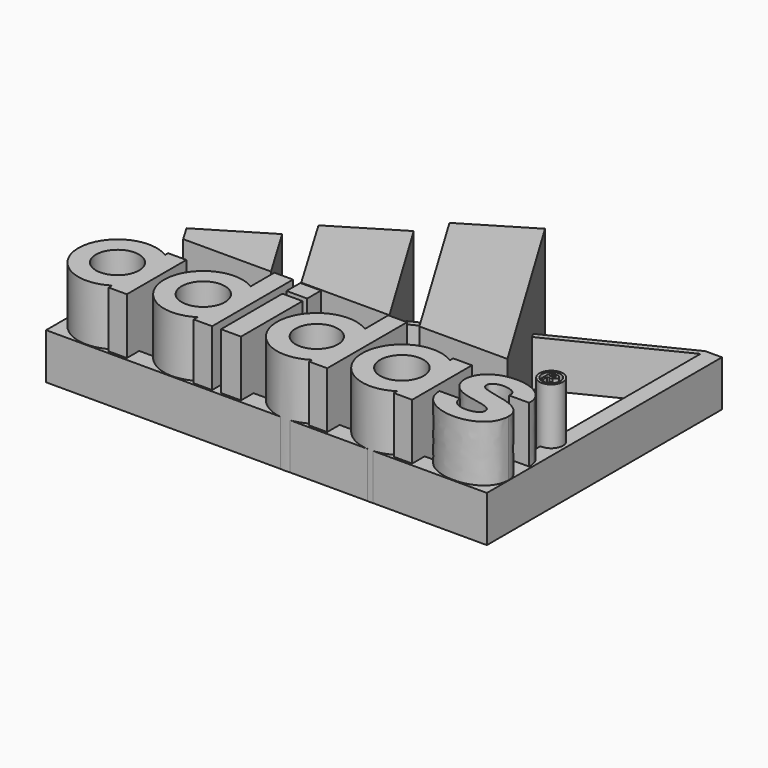
from build123d import *

# Parameters (mm, degrees)
F0_R     = 5.278497
F0_R_2   = 2.920981
F0_R_3   = 2.325318
F1_DEPTH = 25.4
F2_W     = 3.03001
F2_H     = 16.304354
F3_DEPTH = 11.43


with BuildPart() as f1:
    # F0 (on Top) → F1 (new body)
    with BuildSketch(Plane.XY):
        with BuildLine():
            Line((-44.356514, -25.042163), (-44.356514, -18.031139))
            ThreePointArc((-44.356514, -18.031139), (-59.319249, -26.25427), (-44.356514, -34.477401))
            Line((-44.356514, -34.477401), (-44.356514, -27.466378))
            ThreePointArc((-44.356514, -27.466378), (-54.938865, -26.25427), (-44.356514, -25.042163))
        make_face()
        with BuildLine():
            ThreePointArc((-39.837294, -26.25427), (-41.041537, -21.562702), (-44.356514, -18.031139))
            Line((-44.356514, -18.031139), (-44.356514, -25.042163))
            ThreePointArc((-44.356514, -25.042163), (-44.2525, -25.644254), (-44.217678, -26.25427))
            ThreePointArc((-44.217678, -26.25427), (-44.2525, -26.864287), (-44.356514, -27.466378))
            Line((-44.356514, -27.466378), (-44.356514, -34.477401))
            ThreePointArc((-44.356514, -34.477401), (-41.041537, -30.945838), (-39.837294, -26.25427))
        make_face()
        with BuildLine():
            Line((-39.818633, -17.063452), (-44.356514, -17.063452))
            Line((-44.356514, -17.063452), (-44.356514, -18.031139))
            ThreePointArc((-44.356514, -18.031139), (-41.041537, -21.562702), (-39.837294, -26.25427))
            ThreePointArc((-39.837294, -26.25427), (-41.041537, -30.945838), (-44.356514, -34.477401))
            Line((-44.356514, -34.477401), (-44.356514, -35.563111))
            Line((-44.356514, -35.563111), (-39.818633, -35.563111))
            Line((-39.818633, -35.563111), (-39.818633, -17.063452))
        make_face()
        with BuildLine():
            Line((-23.091254, -24.702073), (-23.102247, -17.97179))
            ThreePointArc((-23.102247, -17.97179), (-38.000848, -26.270199), (-23.075217, -34.519892))
            Line((-23.075217, -34.519892), (-23.086211, -27.789609))
            ThreePointArc((-23.086211, -27.789609), (-33.635913, -26.263069), (-23.091254, -24.702073))
        make_face()
        with BuildLine():
            ThreePointArc((-18.497827, -26.25427), (-19.726314, -21.516123), (-23.102247, -17.97179))
            Line((-23.102247, -17.97179), (-23.091254, -24.702073))
            ThreePointArc((-23.091254, -24.702073), (-22.920195, -25.469808), (-22.862767, -26.25427))
            ThreePointArc((-22.862767, -26.25427), (-22.918921, -27.030026), (-23.086211, -27.789609))
            Line((-23.086211, -27.789609), (-23.075217, -34.519892))
            ThreePointArc((-23.075217, -34.519892), (-19.718586, -30.97849), (-18.497827, -26.25427))
        make_face()
        with BuildLine():
            Line((-18.479459, -10.568315), (-23.11434, -10.568315))
            Line((-23.11434, -10.568315), (-23.102247, -17.97179))
            ThreePointArc((-23.102247, -17.97179), (-19.726314, -21.516123), (-18.497827, -26.25427))
            ThreePointArc((-18.497827, -26.25427), (-19.718586, -30.97849), (-23.075217, -34.519892))
            Line((-23.075217, -34.519892), (-23.07325, -35.723936))
            Line((-23.07325, -35.723936), (-18.479459, -35.723936))
            Line((-18.479459, -35.723936), (-18.479459, -10.568315))
        make_face()
        Polygon((-11.372587, -16.500179), (-16.369598, -16.496569), (-16.345292, -35.624623), (-11.372587, -35.624623), align=None)
        Polygon((-16.45134, -10.79685), (-16.478352, -15.091627), (-11.340375, -15.091627), (-11.340375, -10.79685), align=None)
        with BuildLine():
            Line((5.504885, -34.656272), (5.410519, -18.06218))
            ThreePointArc((5.410519, -18.06218), (-9.78956, -26.445934), (5.504885, -34.656272))
        make_face()
        with Locations((0.091557, -26.389742)):
            Circle(F0_R, mode=Mode.SUBTRACT)
        with BuildLine():
            ThreePointArc((5.504885, -34.656272), (8.784377, -31.088096), (9.972834, -26.389742))
            ThreePointArc((9.972834, -26.389742), (8.757518, -21.642032), (5.410519, -18.06218))
            Line((5.410519, -18.06218), (5.504885, -34.656272))
        make_face()
        with BuildLine():
            ThreePointArc((5.410519, -18.06218), (8.757518, -21.642032), (9.972834, -26.389742))
            ThreePointArc((9.972834, -26.389742), (8.784377, -31.088096), (5.504885, -34.656272))
            Line((5.504885, -34.656272), (5.510056, -35.565685))
            Line((5.510056, -35.565685), (10.028983, -35.565685))
            Line((10.028983, -35.565685), (10.028983, -10.756131))
            Line((10.028983, -10.756131), (5.368971, -10.756131))
            Line((5.368971, -10.756131), (5.410519, -18.06218))
        make_face()
        with BuildLine():
            ThreePointArc((26.615495, -34.622219), (29.900944, -31.06085), (31.092068, -26.364176))
            ThreePointArc((31.092068, -26.364176), (29.882094, -21.632897), (26.549283, -18.063385))
            Line((26.549283, -18.063385), (26.579208, -25.547382))
            ThreePointArc((26.579208, -25.547382), (26.625746, -25.954601), (26.641288, -26.364176))
            ThreePointArc((26.641288, -26.364176), (26.62734, -26.7522), (26.58557, -27.138221))
            Line((26.58557, -27.138221), (26.615495, -34.622219))
        make_face()
        with BuildLine():
            Line((26.579208, -25.547382), (26.549283, -18.063385))
            ThreePointArc((26.549283, -18.063385), (11.381764, -26.403583), (26.615495, -34.622219))
            Line((26.615495, -34.622219), (26.58557, -27.138221))
            ThreePointArc((26.58557, -27.138221), (15.832509, -26.385786), (26.579208, -25.547382))
        make_face()
        with BuildLine():
            ThreePointArc((26.549283, -18.063385), (29.882094, -21.632897), (31.092068, -26.364176))
            ThreePointArc((31.092068, -26.364176), (29.900944, -31.06085), (26.615495, -34.622219))
            Line((26.615495, -34.622219), (26.619434, -35.60742))
            Line((26.619434, -35.60742), (31.194991, -35.60742))
            Line((31.194991, -35.60742), (31.194991, -17.029611))
            Line((31.194991, -17.029611), (26.545149, -17.029611))
            Line((26.545149, -17.029611), (26.549283, -18.063385))
        make_face()
        with BuildLine():
            Line((44.766255, -22.411488), (49.721785, -22.411488))
            add(Edge.make_bspline(
                [(49.721785, -22.411488), (50.169066, -14.760151), (34.407925, -13.817908), (33.722658, -22.298085)],
                knots=[0, 0, 0, 0, 15.999529, 15.999529, 15.999529, 15.999529], degree=3))
            add(Edge.make_bspline(
                [(33.722658, -22.298085), (34.010999, -29.996708), (45.571782, -26.773375), (45.183364, -30.557211)],
                knots=[0, 0, 0, 0, 14.126605, 14.126605, 14.126605, 14.126605], degree=3))
            add(Edge.make_bspline(
                [(38.162142, -29.39772), (38.186189, -33.490006), (45.303117, -32.490607), (45.183364, -30.557211)],
                knots=[0, 0, 0, 0, 7.116318, 7.116318, 7.116318, 7.116318], degree=3))
            Line((38.162142, -29.39772), (33.030771, -29.413484))
            add(Edge.make_bspline(
                [(33.030771, -29.413484), (33.088263, -37.817847), (49.987182, -38.544685), (50.173864, -29.37747)],
                knots=[0, 0, 0, 0, 17.143131, 17.143131, 17.143131, 17.143131], degree=3))
            add(Edge.make_bspline(
                [(50.173864, -29.37747), (50.346434, -23.175411), (38.816549, -24.522878), (38.665488, -22.074034)],
                knots=[0, 0, 0, 0, 13.630219, 13.630219, 13.630219, 13.630219], degree=3))
            add(Edge.make_bspline(
                [(38.665488, -22.074034), (37.878796, -19.244138), (45.060314, -19.29507), (44.774633, -22.074034)],
                knots=[0, 0, 0, 0, 6.109145, 6.109145, 6.109145, 6.109145], degree=3))
            Line((44.774633, -22.074034), (44.766255, -22.411488))
        make_face()
        Polygon((-32.062199, 3.044549), (-48.12314, -6.634844), (-45.764549, -10.617957), (-23.924656, -10.617957), align=None)
        Polygon((-12.916582, 20.005966), (-28.863272, 10.331297), (-16.428154, -10.573395), (5.510056, -10.573395), align=None)
        Polygon((-9.6467, 27.037118), (13.008787, -10.63405), (34.917489, -10.63405), (6.393221, 36.70252), align=None)
        with Locations((46.453502, -11.43903)):
            Circle(F0_R_2)
        with Locations((46.453502, -11.43903)):
            Circle(F0_R_3, mode=Mode.SUBTRACT)
        Polygon((45.157984, -13.013721), (45.698058, -13.013721), (45.698058, -11.784204), (45.698058, -11.110367), (45.698058, -10.481958), (45.698058, -9.916488), (45.157984, -9.916488), align=None)
        with BuildLine():
            Line((45.698058, -11.110367), (45.698058, -11.784204))
            Line((45.698058, -11.784204), (46.411447, -11.784204))
            Line((46.411447, -11.784204), (47.153424, -12.935027))
            Line((47.153424, -12.935027), (47.849976, -12.935027))
            Line((47.849976, -12.935027), (47.054999, -11.784204))
            Line((47.054999, -11.784204), (46.827864, -11.784204))
            add(Edge.make_bspline(
                [(46.827864, -11.784204), (46.608299, -11.625209), (48.750948, -11.080083), (47.023084, -9.916488)],
                knots=[0, 0, 0, 0, 1.877891, 1.877891, 1.877891, 1.877891], degree=3))
            Line((47.023084, -9.916488), (45.698058, -9.916488))
            Line((45.698058, -9.916488), (45.698058, -10.481958))
            Line((45.698058, -10.481958), (46.797577, -10.481958))
            add(Edge.make_bspline(
                [(46.797577, -10.481958), (47.236707, -10.837805), (46.903577, -11.049798), (46.797577, -11.110367)],
                knots=[0, 0, 0, 0, 0.628409, 0.628409, 0.628409, 0.628409], degree=3))
            Line((46.797577, -11.110367), (45.698058, -11.110367))
        make_face()
    extrude(amount=F1_DEPTH)

    # F2 (on Top) → F3 (join)
    with BuildSketch(Plane.XY):
        Polygon((46.093546, 36.894754), (-59.406534, -15.419663), (-56.376524, -15.419663), (-16.286751, 4.459688), (46.093546, 35.39226), align=None)
        Polygon((50.251059, 36.894754), (46.093546, 36.894754), (46.093546, 35.39226), (46.093546, -31.724017), (50.251059, -31.724017), align=None)
        Polygon((-56.376524, -31.724017), (-59.406534, -31.724017), (-59.406534, -36.196891), (50.251059, -36.196891), (50.251059, -31.724017), (46.093546, -31.724017), (-10.928927, -31.724017), (-16.286751, -31.724017), align=None)
        with Locations((-57.891529, -23.57184)):
            Rectangle(F2_W, F2_H)
    extrude(amount=F3_DEPTH)


solid = f1.part
